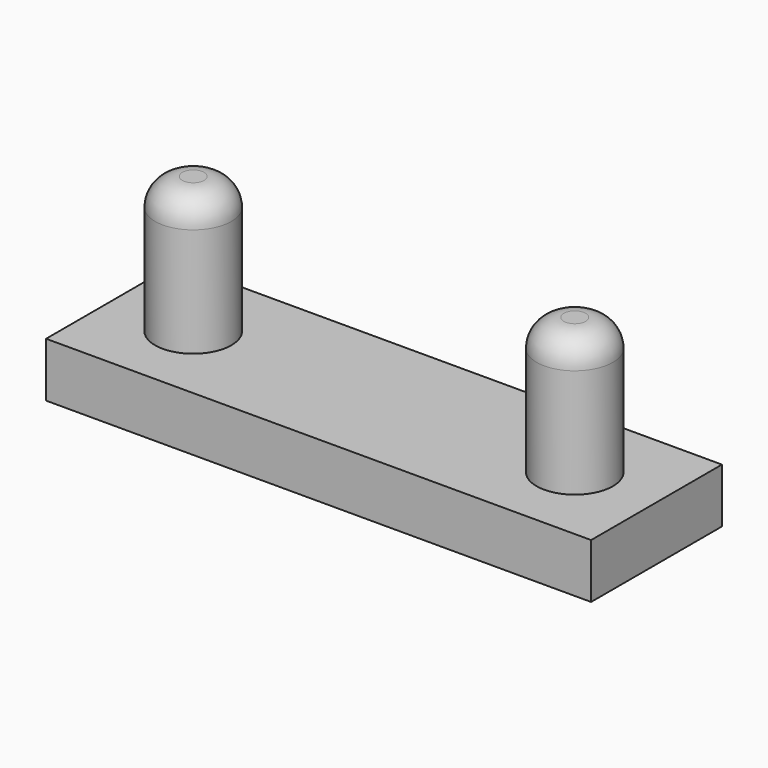
from build123d import *

# Parameters (mm, degrees)
F0_W     = 20
F0_H     = 6
F1_DEPTH = 2
F2_R     = 1.4
F3_DEPTH = 5
F4_R     = 1


with BuildPart() as f1:
    # F0 (on Top) → F1 (new body)
    with BuildSketch(Plane.XY):
        Rectangle(F0_W, F0_H)
    extrude(amount=F1_DEPTH)

    # F2 (on face) → F3 (join)
    with BuildSketch(Plane.XY.offset(2)):
        with Locations((-7, 0)):
            Circle(F2_R)
        with Locations((7, 0)):
            Circle(F2_R)
    extrude(amount=F3_DEPTH)

    # F4
    f4_edges = [f1.edges().sort_by_distance(p)[0] for p in [
        (-8.4, 0, 7),
        (5.6, 0, 7),
    ]]
    fillet(f4_edges, radius=F4_R)


solid = f1.part
